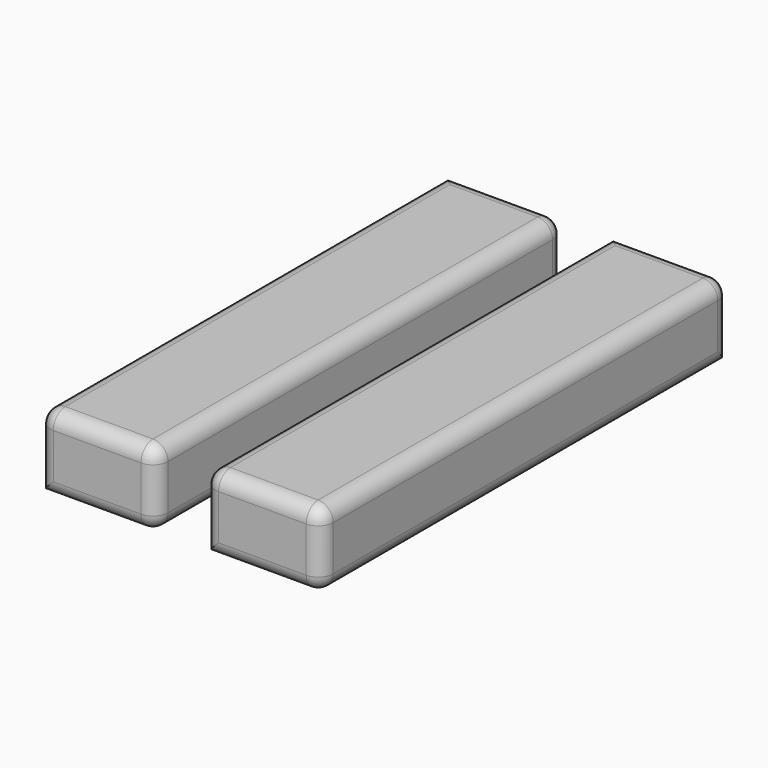
from build123d import *

# Parameters (mm, degrees)
F0_W     = 39.190356
F0_H     = 169.987589
F1_DEPTH = 25
F2_R     = 5


with BuildPart() as f1:
    # F0 (on Top) → F1 (new body)
    with BuildSketch(Plane.XY):
        with Locations((19.595178, -84.993794)):
            Rectangle(F0_W, F0_H)
    extrude(amount=F1_DEPTH)

    # F2
    f2_edges = [f1.edges().sort_by_distance(p)[0] for p in [
        (39.190356, -169.987589, 12.5),
        (39.190356, 0, 12.5),
        (39.190356, -84.993795, 0),
        (39.190356, -84.993795, 25),
        (0, -169.987589, 12.5),
        (19.595178, -169.987589, 0),
        (19.595178, -169.987589, 25),
        (19.595178, 0, 25),
        (0, -84.993795, 25),
    ]]
    fillet(f2_edges, radius=F2_R)


with BuildPart() as f3_1:
    # F3: copy of F1
    add(f1.part.moved(Location((55, 0, 0))))


solid = Compound([f1.part, f3_1.part])
